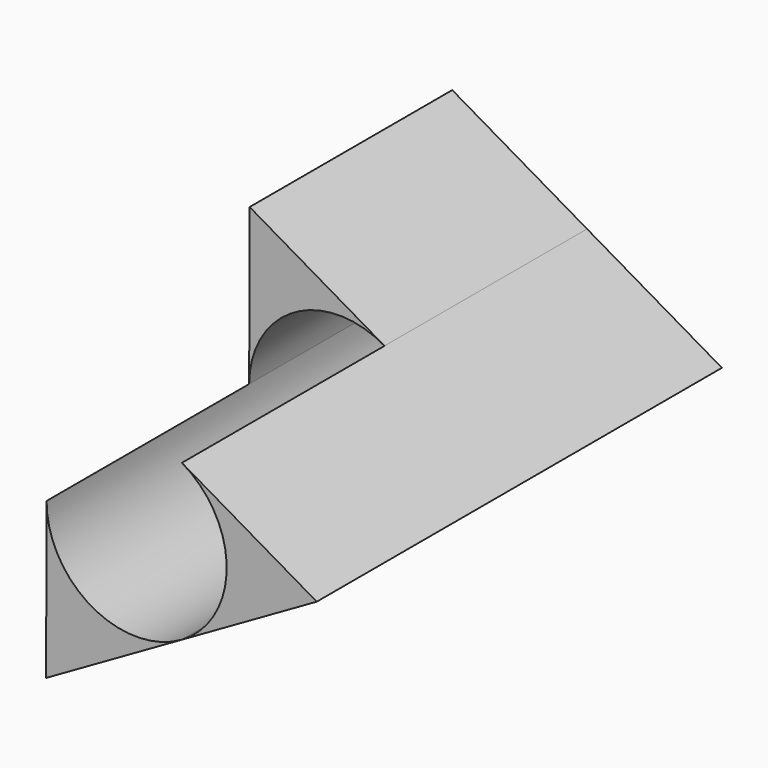
from build123d import *

# Parameters (mm, degrees)
F1_DEPTH = 150
F2_R     = 53.3448977551
F3_DEPTH = 300.001
F4_DEPTH = 150


with BuildPart() as f1:
    # F0 (on Front) → F1 (new body, symmetric)
    with BuildSketch(Plane.XZ):
        Polygon((-53.6347097506, -92.22814308), (106.6892697264, -0.3349496286), (-53.0545599759, 92.5630927086), align=None)
    extrude(amount=F1_DEPTH, both=True)

    # F2 (on face) → F3 (cut, through all)
    with BuildSketch(Plane.XZ.offset(150)):
        Circle(F2_R)
    extrude(amount=-F3_DEPTH, mode=Mode.SUBTRACT)

    # F4 (cut): a face of the model
    f4_faces = [f1.faces().sort_by_distance(p)[0] for p in [
        (-33.5448479643, -150, 58.5249387315),
    ]]
    extrude(f4_faces, amount=-F4_DEPTH, mode=Mode.SUBTRACT)


solid = f1.part
